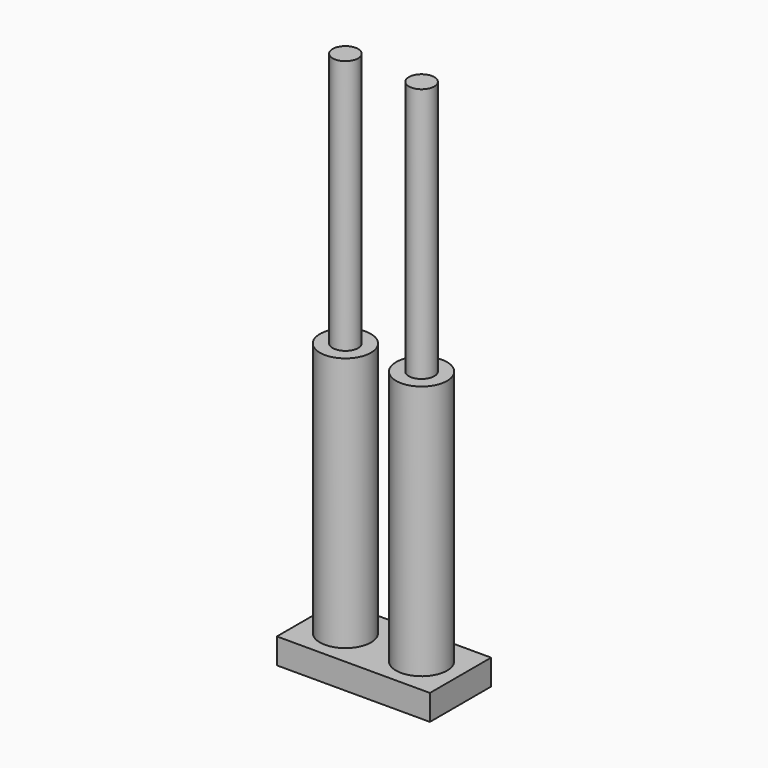
from build123d import *

# Parameters (mm, degrees)
F0_R     = 2.54
F0_R_2   = 1.27
F1_DEPTH = 2.54
F2_DEPTH = 25.4
F3_DEPTH = 50.8


with BuildPart() as f1:
    # F0 (on Top) → F1 (new body)
    with BuildSketch(Plane.XY):
        Polygon((-47.093086, -27.160453), (-47.093086, -34.780453), (-39.473086, -34.780453), (-31.853086, -34.780453), (-31.853086, -27.160453), (-39.473086, -27.160453), align=None)
        with Locations((-43.283086, -31.007911)):
            Circle(F0_R, mode=Mode.SUBTRACT)
        with Locations((-35.700362, -31.007911)):
            Circle(F0_R, mode=Mode.SUBTRACT)
        Polygon((-47.093086, -27.160453), (-47.093086, -34.780453), (-39.473086, -34.780453), (-31.853086, -34.780453), (-31.853086, -27.160453), (-39.473086, -27.160453), align=None)
        with Locations((-43.283086, -31.007911)):
            Circle(F0_R, mode=Mode.SUBTRACT)
        with Locations((-35.700362, -31.007911)):
            Circle(F0_R, mode=Mode.SUBTRACT)
        with Locations((-43.283086, -31.007911)):
            Circle(F0_R)
        with Locations((-43.283086, -31.007911)):
            Circle(F0_R_2, mode=Mode.SUBTRACT)
        with Locations((-43.283086, -31.007911)):
            Circle(F0_R_2)
        with Locations((-35.700362, -31.007911)):
            Circle(F0_R)
        with Locations((-35.700362, -31.007911)):
            Circle(F0_R_2, mode=Mode.SUBTRACT)
        with Locations((-35.700362, -31.007911)):
            Circle(F0_R_2)
    extrude(amount=-F1_DEPTH)

    # F0 (on Top) → F2 (join)
    with BuildSketch(Plane.XY):
        with Locations((-43.283086, -31.007911)):
            Circle(F0_R)
        with Locations((-43.283086, -31.007911)):
            Circle(F0_R_2, mode=Mode.SUBTRACT)
        with Locations((-35.700362, -31.007911)):
            Circle(F0_R)
        with Locations((-35.700362, -31.007911)):
            Circle(F0_R_2, mode=Mode.SUBTRACT)
    extrude(amount=F2_DEPTH)

    # F0 (on Top) → F3 (join)
    with BuildSketch(Plane.XY):
        with Locations((-43.283086, -31.007911)):
            Circle(F0_R_2)
        with Locations((-35.700362, -31.007911)):
            Circle(F0_R_2)
    extrude(amount=F3_DEPTH)


solid = f1.part
